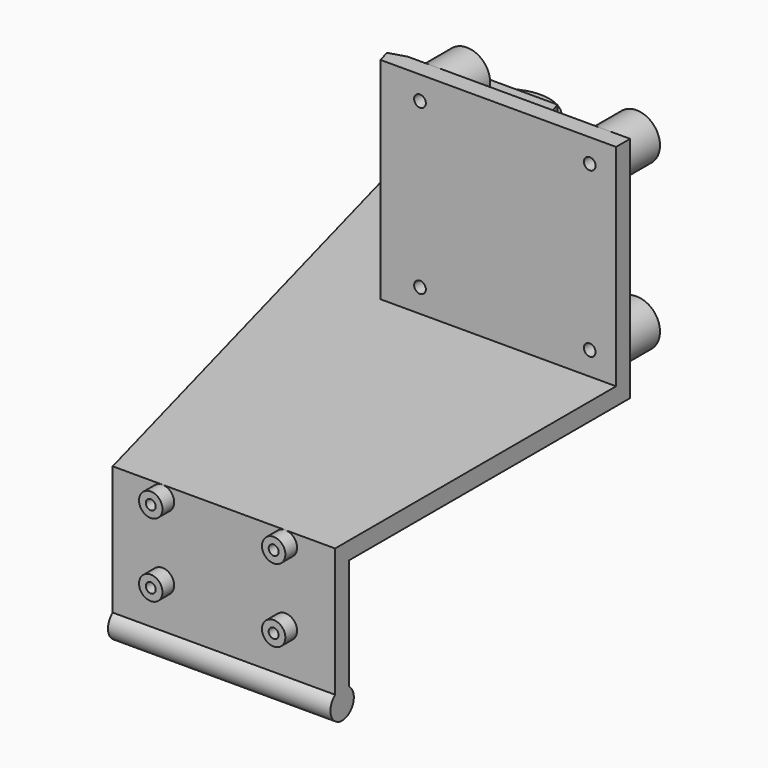
from build123d import *

# Parameters (mm, degrees)
PAD_DEPTH       = 38
SKETCH001_R     = 2.5
PAD001_DEPTH    = 38
SKETCH002_R     = 2
PAD002_DEPTH    = 2.5
SKETCH003_R     = 0.85
POCKET_DEPTH    = 10
SKETCH004_R     = 4
PAD003_DEPTH    = 10
SKETCH005_R     = 1
POCKET001_DEPTH = 10.001
PAD004_DEPTH    = 3
PAD005_DEPTH    = 3
PAD006_DEPTH    = 3
SKETCH009_W     = 60
SKETCH009_H     = 36
POCKET002_DEPTH = 68.001


with BuildPart() as part:
    # Sketch → Pad (new body)
    with BuildSketch(Plane.YZ):
        Polygon((-63, 3), (-63, -23), (-60, -23), (-60, 0), (0, 0), (0, 39), (-3, 39), (-3, 3), align=None)
    extrude(amount=PAD_DEPTH)

    # Sketch001 (on Face10 of Pad) → Pad001 (new body)
    with BuildSketch(Plane.YZ.offset(38)):
        with Locations((-61.5, -21)):
            Circle(SKETCH001_R)
    extrude(amount=-PAD001_DEPTH)

    # Sketch002 (on Face3 of Pad001) → Pad002 (new body)
    with BuildSketch(Plane(origin=(0, -63, 0), x_dir=(0, 0, -1), z_dir=(0, -1, 0))):
        with Locations((-1, 29.5)):
            Circle(SKETCH002_R)
        with Locations((-1, 8.5)):
            Circle(SKETCH002_R)
        with Locations((11.5, 8.5)):
            Circle(SKETCH002_R)
        with Locations((11.5, 29.5)):
            Circle(SKETCH002_R)
    extrude(amount=PAD002_DEPTH)

    # Sketch003 (on Face25 of Pad002) → Pocket (cut)
    with BuildSketch(Plane(origin=(0, -65.5, 0), x_dir=(0, 0, -1), z_dir=(0, -1, 0))):
        with Locations((11.5, 29.5)):
            Circle(SKETCH003_R)
        with Locations((11.5, 8.5)):
            Circle(SKETCH003_R)
        with Locations((-1, 29.5)):
            Circle(SKETCH003_R)
        with Locations((-1, 8.5)):
            Circle(SKETCH003_R)
    extrude(amount=-POCKET_DEPTH, mode=Mode.SUBTRACT)

    # Sketch004 (on Face1 of Pocket) → Pad003 (new body)
    with BuildSketch(Plane(origin=(0, -3, 0), x_dir=(0, 0, -1), z_dir=(0, -1, 0))):
        with Locations((-7, 33.5)):
            Circle(SKETCH004_R)
        with Locations((-7, 4.5)):
            Circle(SKETCH004_R)
        with Locations((-35, 33.5)):
            Circle(SKETCH004_R)
        with Locations((-35, 4.5)):
            Circle(SKETCH004_R)
    extrude(amount=-PAD003_DEPTH)

    # Sketch005 (on Face29 of Pad003) → Pocket001 (cut, through all)
    with BuildSketch(Plane(origin=(0, -3, 0), x_dir=(0, 0, -1), z_dir=(0, -1, 0))):
        with Locations((-35, 33.5)):
            Circle(SKETCH005_R)
        with Locations((-7, 33.5)):
            Circle(SKETCH005_R)
        with Locations((-7, 4.5)):
            Circle(SKETCH005_R)
        with Locations((-35, 4.5)):
            Circle(SKETCH005_R)
    extrude(amount=-POCKET001_DEPTH, mode=Mode.SUBTRACT)

    # Sketch006 (on Face5 of Pocket001) → Pad004 (new body)
    with BuildSketch(Plane.YX):
        with BuildLine():
            Line((0, 0), (51.151245, -15.315145))
            ThreePointArc((47.04327, -29.740249), (56.213208, -24.554175), (51.151245, -15.315145))
            Line((-63, 0), (47.04327, -29.740249))
            Line((-63, 0), (0, 0))
        make_face()
    extrude(amount=-PAD004_DEPTH)

    # Sketch007 (on Face28 of Pad004) → Pad005 (new body)
    with BuildSketch(Plane(origin=(0, 0, 3), x_dir=(0, -1, 0), z_dir=(0, 0, 1))):
        with BuildLine():
            Line((-51.151245, -15.315145), (-48.756291, -14.598074))
            Line((-48.756291, -14.598074), (-48.756291, -29.996039))
            ThreePointArc((-51.151245, -29.684855), (-49.966376, -29.937481), (-48.756291, -29.996039))
            Line((-51.151245, -29.684855), (-51.151245, -15.315145))
        make_face()
        Polygon((-44.756291, -13.400438), (-42.361336, -12.683367), (-42.361336, -28.474911), (-44.756291, -29.122171), align=None)
    extrude(amount=PAD005_DEPTH)

    # Sketch008 (on Face38 of Pad005) → Pad006 (new body)
    with BuildSketch(Plane(origin=(0, 0, 0), x_dir=(-0.286828, 0.957982, 0), z_dir=(0.957982, 0.286828, 0))):
        Polygon((-2.873946, 0), (46.719346, 0), (46.719346, 6), (0, 39), (-2.873946, 39), align=None)
    extrude(amount=-PAD006_DEPTH)

    # Sketch009 (on Face11 of Pad006) → Pocket002 (cut, through all)
    with BuildSketch(Plane.YZ.offset(38)):
        with Locations((-33, 21)):
            Rectangle(SKETCH009_W, SKETCH009_H)
    extrude(amount=-POCKET002_DEPTH, mode=Mode.SUBTRACT)


solid = part.part
